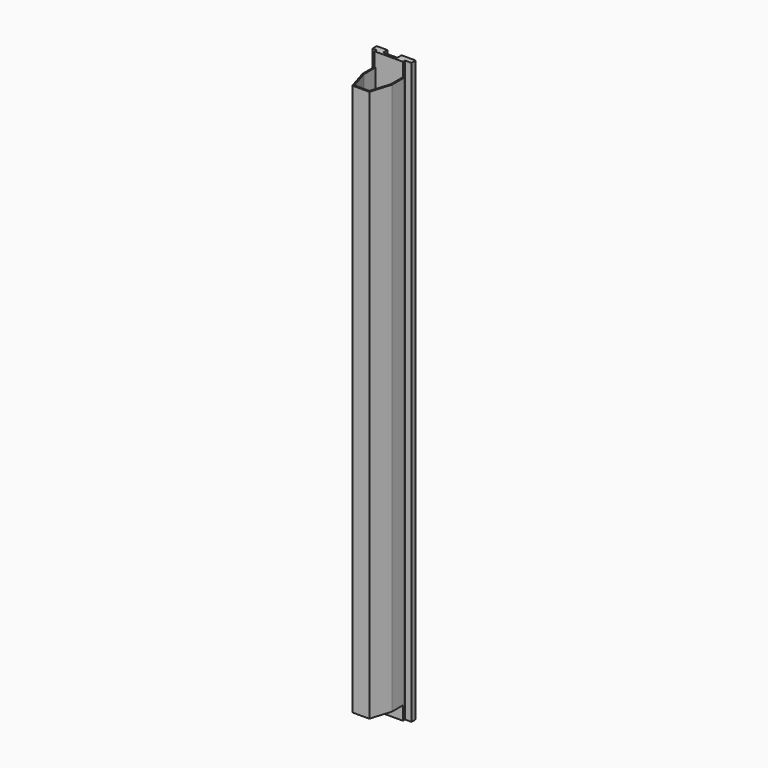
from build123d import *

# Parameters (mm, degrees)
F1_DEPTH      = 1981.2
F3_W          = 96.8375
F3_H          = 12.7
F4_DEPTH      = 76.2
F4_DEPTH_BACK = 76.2
F5_W          = 101.6
F5_H          = 9.525
F6_DEPTH      = 1041.4
F6_DEPTH_BACK = 1041.4
F7_W          = 50.8
F7_H          = 19.05
F7_W_2        = 38.099998
F8_DEPTH      = 1041.4
F8_DEPTH_BACK = 1041.4


with BuildPart() as f1:
    # F0 (on Top) → F1 (new body)
    with BuildSketch(Plane.XY):
        Polygon((-48.41875, -50.8), (-48.41875, 0), (-53.18125, 0), (-53.18125, -51.514181), (-30.507902, -125.4125), (30.507902, -125.4125), (53.18125, -51.514181), (53.18125, 0), (48.41875, 0), (48.41875, -50.8), (26.9875, -120.65), (-26.9875, -120.65), align=None)
    extrude(amount=F1_DEPTH)

    # F3 (on offset) → F4 (join, two sides)
    with BuildSketch(Plane.XY.offset(990.6)) as f4_sk:
        with Locations((0, -6.35)):
            Rectangle(F3_W, F3_H)
    extrude(amount=F4_DEPTH)
    extrude(f4_sk.sketch, amount=-F4_DEPTH_BACK)

    # F5 (on offset) → F6 (join, two sides)
    with BuildSketch(Plane.XY.offset(990.6)) as f6_sk:
        with Locations((0, 4.7625)):
            Rectangle(F5_W, F5_H)
    extrude(amount=F6_DEPTH)
    extrude(f6_sk.sketch, amount=-F6_DEPTH_BACK)

    # F7 (on offset) → F8 (join, two sides)
    with BuildSketch(Plane.XY.offset(990.6)) as f8_sk:
        with Locations((48.418748, 19.05)):
            Rectangle(F7_W, F7_H)
        with Locations((-46.831251, 19.05)):
            Rectangle(F7_W_2, F7_H)
    extrude(amount=F8_DEPTH)
    extrude(f8_sk.sketch, amount=-F8_DEPTH_BACK)


solid = f1.part
